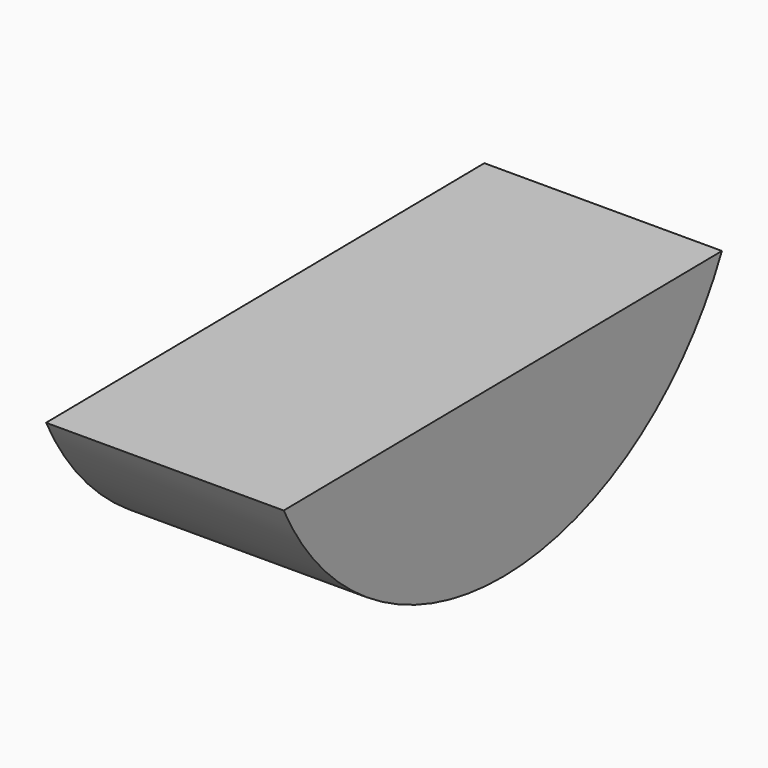
from build123d import *

# Parameters (mm, degrees)
F1_DEPTH = 23.1


with BuildPart() as f1:
    # F0 (on Right) → F1 (new body)
    with BuildSketch(Plane.YZ):
        with BuildLine():
            Line((-9.206385, 48.581384), (-62.461782, 48.014842))
            ThreePointArc((-62.461782, 48.014842), (-35.655484, 31.50963), (-9.206385, 48.581384))
        make_face()
    extrude(amount=F1_DEPTH)


solid = f1.part
